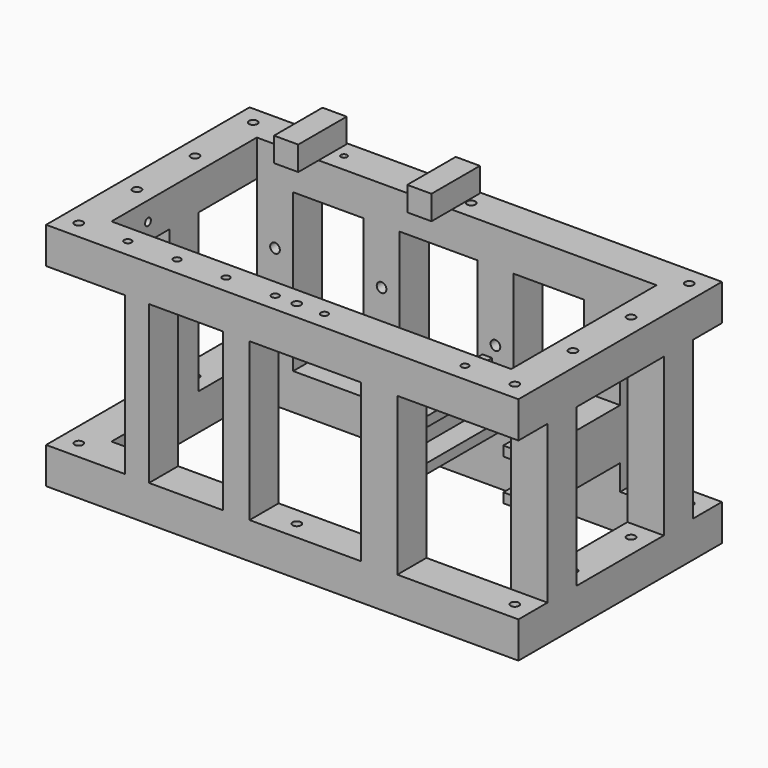
from build123d import *

# Parameters (mm, degrees)
BOX229_W         = 10
BOX229_H         = 25
BOX229_DEPTH     = 10
BOX228_W         = 10
BOX228_H         = 25
BOX228_DEPTH     = 10
SKETCH009_W      = 195
SKETCH009_H      = 105
SKETCH009_R      = 1.75
SKETCH009_W_2    = 165
SKETCH009_H_2    = 75
EXTRUDE009_DEPTH = 15
BOX223_W         = 11
BOX223_H         = 15
BOX223_DEPTH     = 65
BOX224_W         = 15
BOX224_H         = 15
BOX224_DEPTH     = 65
BOX225_W         = 15
BOX225_H         = 15
BOX225_DEPTH     = 65
BOX226_W         = 15
BOX226_H         = 15
BOX226_DEPTH     = 65
BOX227_W         = 15
BOX227_H         = 15
BOX227_DEPTH     = 65
BOX222_W         = 10
BOX222_H         = 15
BOX222_DEPTH     = 65
SKETCH013_R      = 2
EXTRUDE013_DEPTH = 30
BOX217_W         = 15
BOX217_H         = 15
BOX217_DEPTH     = 65
BOX218_W         = 15
BOX218_H         = 15
BOX218_DEPTH     = 65
BOX220_W         = 15
BOX220_H         = 15
BOX220_DEPTH     = 65
BOX216_W         = 15
BOX216_H         = 15
BOX216_DEPTH     = 65
BOX221_W         = 10
BOX221_H         = 23
BOX221_DEPTH     = 10
EXTRUDE012_DEPTH = 45.5
SKETCH014_R      = 1.5
EXTRUDE014_DEPTH = 30
SKETCH010_W      = 195
SKETCH010_H      = 105
SKETCH010_R      = 1.75
SKETCH010_R_2    = 1.25
SKETCH010_R_3    = 1.5
SKETCH010_W_2    = 165
SKETCH010_H_2    = 75
EXTRUDE010_DEPTH = 15


with BuildPart() as cube229:
    # Box229 → Box229 (new body)
    with BuildSketch(Plane(origin=(48, -69, 0), x_dir=(1, 0, 0), z_dir=(0, 0, 1))):
        with Locations((5, 12.5)):
            Rectangle(BOX229_W, BOX229_H)
    extrude(amount=BOX229_DEPTH)


with BuildPart() as ips_hold:
    # Box228 → Box228 (new body)
    with BuildSketch(Plane(origin=(-7, -69, 0), x_dir=(1, 0, 0), z_dir=(0, 0, 1))):
        with Locations((5, 12.5)):
            Rectangle(BOX228_W, BOX228_H)
    extrude(amount=BOX228_DEPTH)

    # Fusion132: union Cube229
    add(cube229.part)


with BuildPart() as ips_hold_1:
    # Fusion132 placement: moved
    add(ips_hold.part.moved(Location((0, 0, -62))))


with BuildPart() as sensor_base:
    # Sketch009 → Extrude009 (new body)
    with BuildSketch(Plane.XY):
        with Locations((60, -96)):
            Rectangle(SKETCH009_W, SKETCH009_H)
        with Locations((-30, -51)):
            Circle(SKETCH009_R, mode=Mode.SUBTRACT)
        with Locations((-30, -81)):
            Circle(SKETCH009_R, mode=Mode.SUBTRACT)
        with Locations((-30, -111)):
            Circle(SKETCH009_R, mode=Mode.SUBTRACT)
        with Locations((-30, -141)):
            Circle(SKETCH009_R, mode=Mode.SUBTRACT)
        with Locations((60, -141)):
            Circle(SKETCH009_R, mode=Mode.SUBTRACT)
        with Locations((150, -141)):
            Circle(SKETCH009_R, mode=Mode.SUBTRACT)
        with Locations((150, -111)):
            Circle(SKETCH009_R, mode=Mode.SUBTRACT)
        with Locations((150, -81)):
            Circle(SKETCH009_R, mode=Mode.SUBTRACT)
        with Locations((150, -51)):
            Circle(SKETCH009_R, mode=Mode.SUBTRACT)
        with Locations((60, -51)):
            Circle(SKETCH009_R, mode=Mode.SUBTRACT)
        with Locations((60, -96)):
            Rectangle(SKETCH009_W_2, SKETCH009_H_2, mode=Mode.SUBTRACT)
    extrude(amount=EXTRUDE009_DEPTH)


with BuildPart() as sensor_base_1:
    # Extrude009 placement: moved
    add(sensor_base.part.moved(Location((0, 0, -157))))


with BuildPart() as cube223:
    # Box223 → Box223 (new body)
    with BuildSketch(Plane(origin=(36, 0, -142), x_dir=(1, 0, 0), z_dir=(0, 0, 1))):
        with Locations((5.5, 7.5)):
            Rectangle(BOX223_W, BOX223_H)
    extrude(amount=BOX223_DEPTH)


with BuildPart() as cube224:
    # Box224 → Box224 (new body)
    with BuildSketch(Plane(origin=(93, 0, -142), x_dir=(1, 0, 0), z_dir=(0, 0, 1))):
        with Locations((7.5, 7.5)):
            Rectangle(BOX224_W, BOX224_H)
    extrude(amount=BOX224_DEPTH)


with BuildPart() as cube225:
    # Box225 → Box225 (new body)
    with BuildSketch(Plane(origin=(143, 15, -142), x_dir=(1, 0, 0), z_dir=(0, 0, 1))):
        with Locations((7.5, 7.5)):
            Rectangle(BOX225_W, BOX225_H)
    extrude(amount=BOX225_DEPTH)


with BuildPart() as cube226:
    # Box226 → Box226 (new body)
    with BuildSketch(Plane(origin=(-37, 45, -142), x_dir=(1, 0, 0), z_dir=(0, 0, 1))):
        with Locations((7.5, 7.5)):
            Rectangle(BOX226_W, BOX226_H)
    extrude(amount=BOX226_DEPTH)


with BuildPart() as cube227:
    # Box227 → Box227 (new body)
    with BuildSketch(Plane(origin=(143, 75, -142), x_dir=(1, 0, 0), z_dir=(0, 0, 1))):
        with Locations((7.5, 7.5)):
            Rectangle(BOX227_W, BOX227_H)
    extrude(amount=BOX227_DEPTH)


with BuildPart() as vertical_back:
    # Box222 → Box222 (new body)
    with BuildSketch(Plane(origin=(-4.5, 0, -142), x_dir=(1, 0, 0), z_dir=(0, 0, 1))):
        with Locations((5, 7.5)):
            Rectangle(BOX222_W, BOX222_H)
    extrude(amount=BOX222_DEPTH)

    # Fusion130: union Cube223, Cube224, Cube225, Cube226, Cube227
    add(cube223.part)
    add(cube224.part)
    add(cube225.part)
    add(cube226.part)
    add(cube227.part)


with BuildPart() as vertical_back_1:
    # Fusion130 placement: moved
    add(vertical_back.part.moved(Location((-0.5, -148.5, 0))))


with BuildPart() as obj1:
    # Sketch013 → Extrude013 (new body)
    with BuildSketch(Plane(origin=(0, 0, 0), x_dir=(-1, 0, 0), z_dir=(0, 1, 0))):
        with Locations((-29, -99.75)):
            Circle(SKETCH013_R)
        with Locations((15, -99.75)):
            Circle(SKETCH013_R)
        with Locations((15, -124.75)):
            Circle(SKETCH013_R)
        with Locations((-76, -105.5)):
            Circle(SKETCH013_R)
        with Locations((-119.5, -105.5)):
            Circle(SKETCH013_R)
        with Locations((-97.75, -67.827895)):
            Circle(SKETCH013_R)
    extrude(amount=-EXTRUDE013_DEPTH)


with BuildPart() as obj1_1:
    # Extrude013 placement: moved
    add(obj1.part.moved(Location((0, -36, 0))))


with BuildPart() as cube217:
    # Box217 → Box217 (new body)
    with BuildSketch(Plane(origin=(22, 0, -142), x_dir=(1, 0, 0), z_dir=(0, 0, 1))):
        with Locations((7.5, 7.5)):
            Rectangle(BOX217_W, BOX217_H)
    extrude(amount=BOX217_DEPTH)


with BuildPart() as cube218:
    # Box218 → Box218 (new body)
    with BuildSketch(Plane(origin=(69, 0, -142), x_dir=(1, 0, 0), z_dir=(0, 0, 1))):
        with Locations((7.5, 7.5)):
            Rectangle(BOX218_W, BOX218_H)
    extrude(amount=BOX218_DEPTH)


with BuildPart() as cube220:
    # Box220 → Box220 (new body)
    with BuildSketch(Plane(origin=(113, 0, -142), x_dir=(1, 0, 0), z_dir=(0, 0, 1))):
        with Locations((7.5, 7.5)):
            Rectangle(BOX220_W, BOX220_H)
    extrude(amount=BOX220_DEPTH)


with BuildPart() as cut017:
    # Box216 → Box216 (new body)
    with BuildSketch(Plane(origin=(-22, 0, -142), x_dir=(1, 0, 0), z_dir=(0, 0, 1))):
        with Locations((7.5, 7.5)):
            Rectangle(BOX216_W, BOX216_H)
    extrude(amount=BOX216_DEPTH)

    # Fusion129: union Cube217, Cube218, Cube220
    add(cube217.part)
    add(cube218.part)
    add(cube220.part)


with BuildPart() as cut017_1:
    # Fusion129 placement: moved
    add(cut017.part.moved(Location((-0.5, -58.5, 0))))

    # Cut017: cut obj1
    add(obj1_1.part, mode=Mode.SUBTRACT)


with BuildPart() as cube221:
    # Box221 → Box221 (new body)
    with BuildSketch(Plane(origin=(27.5, -21, -114.5), x_dir=(1, 0, 0), z_dir=(0, 0, 1))):
        with Locations((5, 11.5)):
            Rectangle(BOX221_W, BOX221_H)
    extrude(amount=BOX221_DEPTH)


with BuildPart() as cut016:
    # Sketch012 → Extrude012 (new body)
    with BuildSketch(Plane(origin=(0, 0, 0), x_dir=(-1, 0, 0), z_dir=(0, 1, 0))):
        Polygon((-80.36, -110.5), (-68.5, -110.5), (-68.5, -114.5), (-76.36, -114.5), (-76.36, -127.5), (-68.56, -127.5), (-68.56, -131.5), (-80.36, -131.5), align=None)
        Polygon((-36.5, -127.5), (-36.5, -131.5), (-23.5, -131.5), (-23.5, -110.5), (-36.5, -110.5), (-36.5, -114.5), (-27.5, -114.5), (-27.5, -127.5), align=None)
    extrude(amount=-EXTRUDE012_DEPTH)


with BuildPart() as cut016_1:
    # Extrude012 placement: moved
    add(cut016.part.moved(Location((0, 2, 0))))

    # Cut016: cut Cube221
    add(cube221.part, mode=Mode.SUBTRACT)


with BuildPart() as cut016_2:
    # Cut016 placement: moved
    add(cut016_1.part.moved(Location((47.14, -60.5, 0))))


with BuildPart() as extrude014:
    # Sketch014 → Extrude014 (new body)
    with BuildSketch(Plane(origin=(0, 0, 0), x_dir=(0, -1, 0), z_dir=(-1, 0, 0))):
        with Locations((114.65, -69.85)):
            Circle(SKETCH014_R)
        with Locations((127.35, -69.85)):
            Circle(SKETCH014_R)
    extrude(amount=EXTRUDE014_DEPTH)


with BuildPart() as extrude014_1:
    # Extrude014 placement: moved
    add(extrude014.part.moved(Location((-15, 0, 0))))


with BuildPart() as sensor_hold:
    # Sketch010 → Extrude010 (new body)
    with BuildSketch(Plane.XY):
        with Locations((60, -96)):
            Rectangle(SKETCH010_W, SKETCH010_H)
        with Locations((-30, -51)):
            Circle(SKETCH010_R, mode=Mode.SUBTRACT)
        with Locations((-30, -81)):
            Circle(SKETCH010_R, mode=Mode.SUBTRACT)
        with Locations((-30, -111)):
            Circle(SKETCH010_R, mode=Mode.SUBTRACT)
        with Locations((-30, -141)):
            Circle(SKETCH010_R, mode=Mode.SUBTRACT)
        with Locations((60, -141)):
            Circle(SKETCH010_R, mode=Mode.SUBTRACT)
        with Locations((150, -141)):
            Circle(SKETCH010_R, mode=Mode.SUBTRACT)
        with Locations((150, -111)):
            Circle(SKETCH010_R, mode=Mode.SUBTRACT)
        with Locations((150, -81)):
            Circle(SKETCH010_R, mode=Mode.SUBTRACT)
        with Locations((150, -51)):
            Circle(SKETCH010_R, mode=Mode.SUBTRACT)
        with Locations((60, -51)):
            Circle(SKETCH010_R, mode=Mode.SUBTRACT)
        with Locations((7.5, -51)):
            Circle(SKETCH010_R_2, mode=Mode.SUBTRACT)
        with Locations((-9.75, -141)):
            Circle(SKETCH010_R_3, mode=Mode.SUBTRACT)
        with Locations((10.55, -141)):
            Circle(SKETCH010_R_3, mode=Mode.SUBTRACT)
        with Locations((30.8, -141)):
            Circle(SKETCH010_R_3, mode=Mode.SUBTRACT)
        with Locations((51.1, -141)):
            Circle(SKETCH010_R_3, mode=Mode.SUBTRACT)
        with Locations((71.4, -141)):
            Circle(SKETCH010_R_3, mode=Mode.SUBTRACT)
        with Locations((129.4, -141)):
            Circle(SKETCH010_R_3, mode=Mode.SUBTRACT)
        with Locations((60, -96)):
            Rectangle(SKETCH010_W_2, SKETCH010_H_2, mode=Mode.SUBTRACT)
    extrude(amount=EXTRUDE010_DEPTH)


with BuildPart() as sensor_hold_1:
    # Extrude010 placement: moved
    add(sensor_hold.part.moved(Location((0, 0, -77))))

    # Cut018: cut Extrude014
    add(extrude014_1.part, mode=Mode.SUBTRACT)

    # Fusion131: union Sensor_base, Vertical_back, Cut017, Cut016
    add(sensor_base_1.part)
    add(vertical_back_1.part)
    add(cut017_1.part)
    add(cut016_2.part)

    # Fusion133: union ips_hold
    add(ips_hold_1.part)


solid = sensor_hold_1.part
